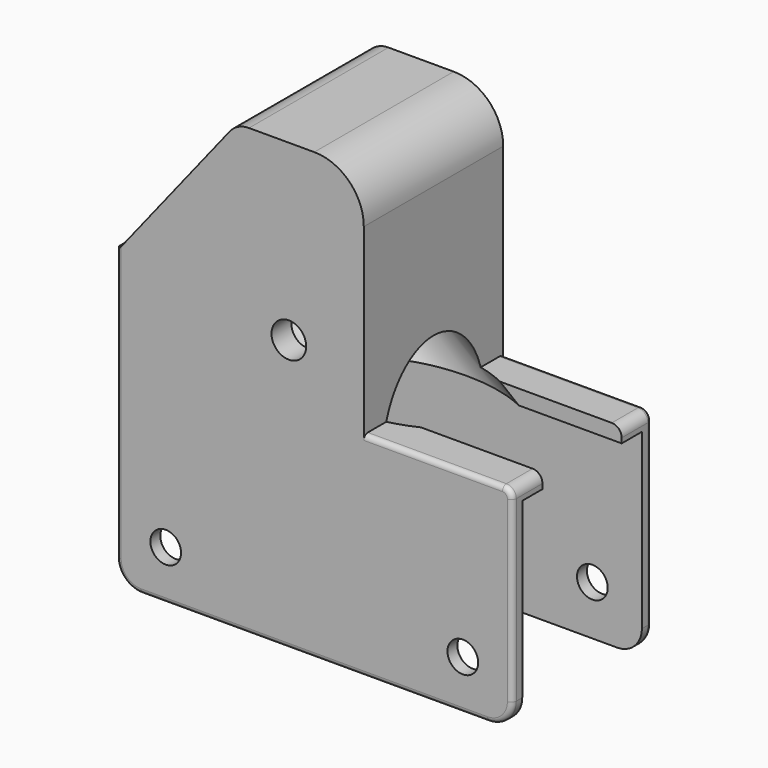
from build123d import *

# Parameters (mm, degrees)
F0_R      = 3.1
F1_DEPTH  = 17.6
F2_W      = 80
F2_H      = 40
F3_DEPTH  = 15.1
F4_R      = 5
F5_R      = 5
F6_R      = 10
F8_DEPTH  = 5
F9_R      = 12.75
F10_DEPTH = 99.501459
F11_R     = 2
F12_R     = 1
F13_R     = 3.5
F14_DEPTH = 40


with BuildPart() as f1:
    # F0 (on Front) → F1 (new body, symmetric)
    with BuildSketch(Plane.XZ):
        with BuildLine():
            Line((-40, -21.5), (40, -21.5))
            Line((40, -21.5), (40, 21.5))
            Line((40, 21.5), (10, 21.5))
            Line((10, 21.5), (10, 68.5))
            Line((10, 68.5), (-13.177477, 68.5))
            ThreePointArc((-13.177477, 68.5), (-15.35175, 68.002504), (-17.093345, 66.609015))
            Line((-17.093345, 66.609015), (-39.385551, 38.531528))
            Line((-39.385551, 38.531528), (-39.330944, 38.5))
            Line((-39.330944, 38.5), (-40, 38.5))
            Line((-40, 38.5), (-40, 21.5))
            Line((-40, 21.5), (-40, -21.5))
        make_face()
        with Locations((-30, -11.5)):
            Circle(F0_R, mode=Mode.SUBTRACT)
        with Locations((30, -11.5)):
            Circle(F0_R, mode=Mode.SUBTRACT)
    extrude(amount=F1_DEPTH, both=True)

    # F2 (on Front) → F3 (cut, symmetric)
    with BuildSketch(Plane.XZ):
        with Locations((0, -1.5)):
            Rectangle(F2_W, F2_H)
    extrude(amount=F3_DEPTH, both=True, mode=Mode.SUBTRACT)

    # F4
    f4_edges = [f1.edges().sort_by_distance(p)[0] for p in [
        (40, 16.35, -21.5),
        (40, -16.35, -21.5),
    ]]
    fillet(f4_edges, radius=F4_R)

    # F5
    f5_edges = [f1.edges().sort_by_distance(p)[0] for p in [
        (-40, 16.35, -21.5),
        (-40, -16.35, -21.5),
    ]]
    fillet(f5_edges, radius=F5_R)

    # F6
    f6_edges = [f1.edges().sort_by_distance(p)[0] for p in [
        (10, 0, 68.5),
    ]]
    fillet(f6_edges, radius=F6_R)

    # F7 (on face) → F8 (cut)
    with BuildSketch(Plane.XY.offset(21.5)):
        with BuildLine():
            Line((15, -10), (40, -10))
            Line((40, -10), (40, 0))
            Line((40, 0), (40, 10))
            Line((40, 10), (15, 10))
            ThreePointArc((15, 10), (11.464466, 8.535534), (10, 5))
            Line((10, 5), (10, -5))
            ThreePointArc((10, -5), (11.464466, -8.535534), (15, -10))
        make_face()
    extrude(amount=-F8_DEPTH, mode=Mode.SUBTRACT)

    # F9 (on face) → F10 (cut, through all)
    with BuildSketch(Plane(origin=(-42.921633, 0, 34.07776), x_dir=(0, -1, 0), z_dir=(-0.783174, 0, 0.621803))):
        with Locations((0, 18.526129)):
            Circle(F9_R)
    extrude(amount=-F10_DEPTH, mode=Mode.SUBTRACT)

    # F11
    f11_edges = [f1.edges().sort_by_distance(p)[0] for p in [
        (40, 13.8, 21.5),
        (40, -13.8, 21.5),
    ]]
    fillet(f11_edges, radius=F11_R)

    # F12
    f12_edges = [f1.edges().sort_by_distance(p)[0] for p in [
        (40, -17.6, 1.5),
        (40, 17.6, 1.5),
    ]]
    fillet(f12_edges, radius=F12_R)

    # F13 (on face) → F14 (cut)
    with BuildSketch(Plane.XZ.offset(17.6)):
        with Locations((-5.136279, 33.422398)):
            Circle(F13_R)
    extrude(amount=-F14_DEPTH, mode=Mode.SUBTRACT)


solid = f1.part
